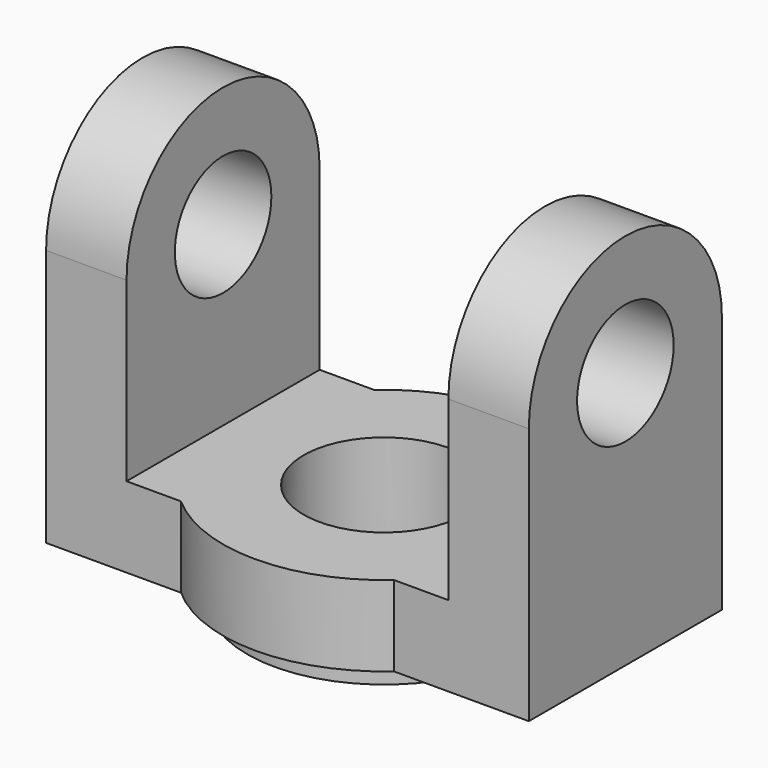
from build123d import *

# Parameters (mm, degrees)
F0_R      = 20
F0_R_2    = 10
F1_DEPTH  = 10
F2_W      = 60
F2_H      = 30
F3_DEPTH  = 10
F4_R      = 17
F5_DEPTH  = 13
F6_R      = 10
F7_DEPTH  = 13.001
F8_W      = 30
F8_H      = 66
F9_DEPTH  = 60
F10_W     = 40
F10_H     = 56
F11_DEPTH = 35.001
F12_R     = 7.5
F13_DEPTH = 60.001
F14_R     = 10
F15_DEPTH = 13.001


with BuildPart() as f1:
    # F0 (on Top) → F1 (new body)
    with BuildSketch(Plane.XY):
        Circle(F0_R)
        Circle(F0_R_2, mode=Mode.SUBTRACT)
    extrude(amount=F1_DEPTH)

    # F2 (on Top) → F3 (join)
    with BuildSketch(Plane.XY):
        Rectangle(F2_W, F2_H)
    extrude(amount=F3_DEPTH)

    # F4 (on face) → F5 (join)
    with BuildSketch(Plane.XY.offset(10)):
        Circle(F4_R)
    extrude(amount=-F5_DEPTH)

    # F6 (on face) → F7 (cut, through all)
    with BuildSketch(Plane.XY.offset(10)):
        Circle(F6_R)
    extrude(amount=-F7_DEPTH, mode=Mode.SUBTRACT)

    # F8 (on face) → F9 (join)
    with BuildSketch(Plane.YZ.offset(30)):
        with Locations((0, 33)):
            Rectangle(F8_W, F8_H)
    extrude(amount=-F9_DEPTH)

    # F10 (on face) → F11 (cut, through all)
    with BuildSketch(Plane.XZ.offset(15)):
        with Locations((0, 38)):
            Rectangle(F10_W, F10_H)
    extrude(amount=-F11_DEPTH, mode=Mode.SUBTRACT)

    # F12 (on face) → F13 (cut, through all)
    with BuildSketch(Plane.YZ.offset(30)):
        with Locations((0, 32)):
            Circle(F12_R)
        with BuildLine():
            ThreePointArc((-15, 32), (0, 47), (15, 32))
            Line((15, 32), (15, 66))
            Line((15, 66), (-15, 66))
            Line((-15, 66), (-15, 32))
        make_face()
    extrude(amount=-F13_DEPTH, mode=Mode.SUBTRACT)

    # F14 (on face) → F15 (cut, through all)
    with BuildSketch(Plane.XY.offset(10)):
        Circle(F14_R)
    extrude(amount=-F15_DEPTH, mode=Mode.SUBTRACT)


solid = f1.part
